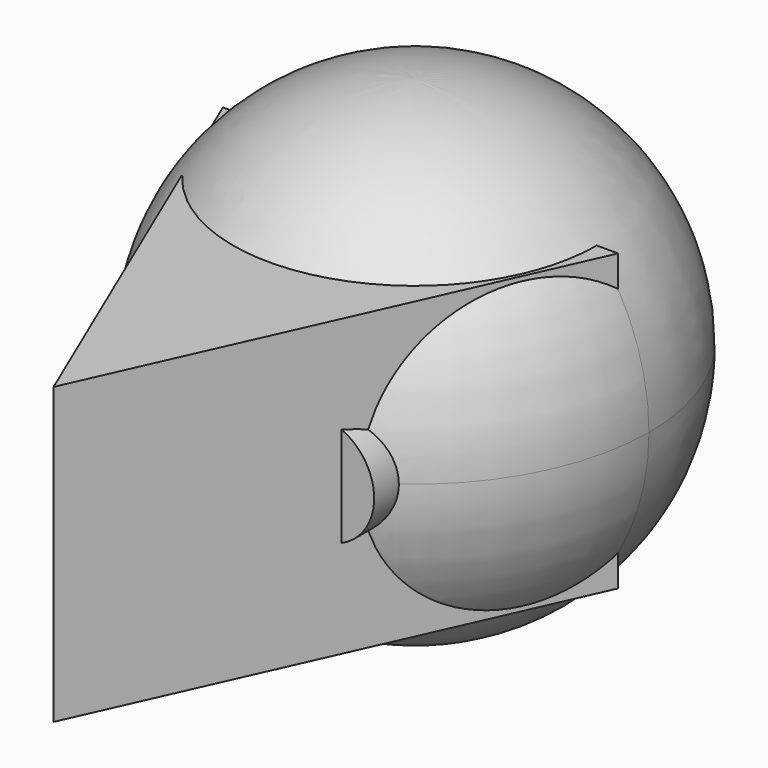
from build123d import *

# Parameters (mm, degrees)
F3_DEPTH = 8
F4_DEPTH = 8
F5_R     = 2.956664
F6_DEPTH = 12


with BuildPart() as f1:
    # F0 (on Front) → F1 (revolve)
    with BuildSketch(Plane.XZ):
        with BuildLine():
            ThreePointArc((0, -12.7), (8.980256, -8.980256), (12.7, 0))
            ThreePointArc((12.7, 0), (8.980256, 8.980256), (0, 12.7))
            Line((0, 12.7), (0, -12.7))
        make_face()
    revolve(axis=Axis((0, 0, 4.66028), (0, 0, -1)))

    # F2 (on Top) → F3 (join)
    with BuildSketch(Plane.XY):
        Polygon((11.026248, 0), (0, 0), (-10.413706, 0), (0, -24.502814), align=None)
    extrude(amount=F3_DEPTH)

    # F2 (on Top) → F4 (join)
    with BuildSketch(Plane.XY):
        Polygon((11.026248, 0), (0, 0), (-10.413706, 0), (0, -24.502814), align=None)
    extrude(amount=-F4_DEPTH)

    # F5 (on Front) → F6 (join)
    with BuildSketch(Plane.XZ):
        with Locations((4.435651, 0)):
            Circle(F5_R)
    extrude(amount=F6_DEPTH)


solid = f1.part
